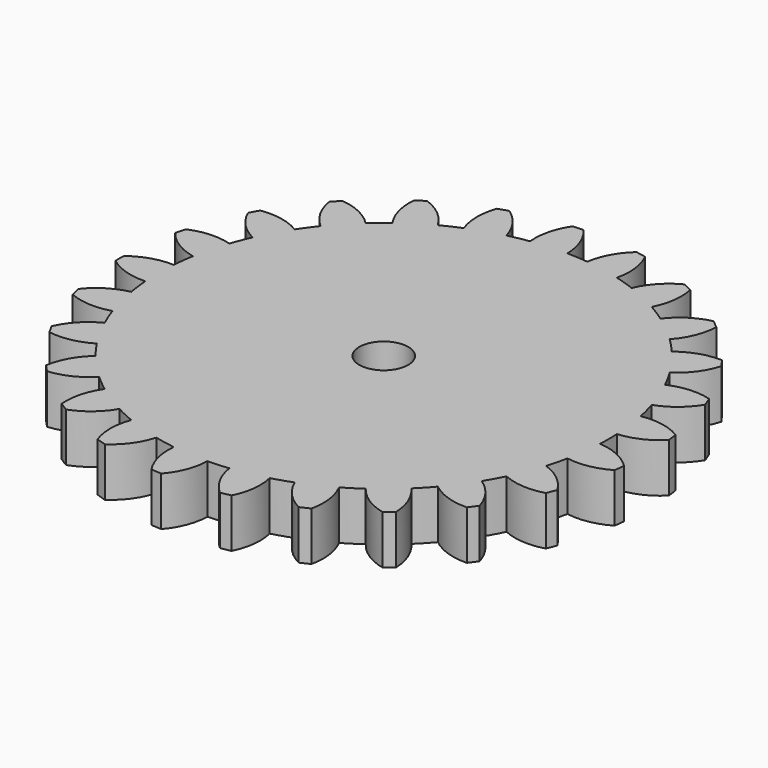
from build123d import *

# Parameters (mm, degrees)
F0_R     = 1
F1_DEPTH = 2


with BuildPart() as f1:
    # F0 (on Top) → F1 (new body)
    with BuildSketch(Plane.XY):
        with BuildLine():
            ThreePointArc((1.003907, 9.145063), (0.577673, 9.181846), (0.150189, 9.198774))
            ThreePointArc((0.150189, 9.198774), (-0.018265, 10.048606), (-0.466655, 10.789913))
            ThreePointArc((-0.466655, 10.789913), (-0.678138, 10.778689), (-0.889359, 10.763319))
            ThreePointArc((-0.889359, 10.763319), (-1.241303, 9.971659), (-1.301917, 9.107415))
            ThreePointArc((-1.301917, 9.107415), (-1.723908, 9.037043), (-2.142172, 8.947128))
            ThreePointArc((-2.142172, 8.947128), (-2.516678, 9.728368), (-3.135337, 10.334876))
            ThreePointArc((-3.135337, 10.334876), (-3.337384, 10.27141), (-3.538147, 10.203995))
            ThreePointArc((-3.538147, 10.203995), (-3.682156, 9.349681), (-3.525937, 8.497516))
            ThreePointArc((-3.525937, 8.497516), (-3.917169, 8.324409), (-4.299932, 8.133301))
            ThreePointArc((-4.299932, 8.133301), (-4.856958, 8.796861), (-5.607013, 9.23046))
            ThreePointArc((-5.607013, 9.23046), (-5.786929, 9.118742), (-5.96462, 9.003516))
            ThreePointArc((-5.96462, 9.003516), (-5.891646, 8.140229), (-5.528409, 7.353686))
            ThreePointArc((-5.528409, 7.353686), (-5.864301, 7.088722), (-6.187511, 6.808429))
            ThreePointArc((-6.187511, 6.808429), (-6.892059, 7.312615), (-7.726381, 7.546061))
            ThreePointArc((-7.726381, 7.546061), (-7.872861, 7.393109), (-8.016314, 7.237314))
            ThreePointArc((-8.016314, 7.237314), (-7.730941, 6.419296), (-7.183511, 5.747797))
            ThreePointArc((-7.183511, 5.747797), (-7.442956, 5.407624), (-7.686307, 5.055758))
            ThreePointArc((-7.686307, 5.055758), (-8.494105, 5.368891), (-9.360272, 5.387515))
            ThreePointArc((-9.360272, 5.387515), (-9.464112, 5.20294), (-9.564314, 5.016364))
            ThreePointArc((-9.564314, 5.016364), (-9.084474, 4.295015), (-8.387247, 3.780752))
            ThreePointArc((-8.387247, 3.780752), (-8.553944, 3.386746), (-8.702143, 2.985416))
            ThreePointArc((-8.702143, 2.985416), (-9.562436, 3.087819), (-10.406022, 2.890451))
            ThreePointArc((-10.406022, 2.890451), (-10.460698, 2.685851), (-10.511352, 2.480218))
            ThreePointArc((-10.511352, 2.480218), (-9.867195, 1.900862), (-9.063981, 1.57615))
            ThreePointArc((-9.063981, 1.57615), (-9.127455, 1.153066), (-9.171192, 0.727488))
            ThreePointArc((-9.171192, 0.727488), (-10.029924, 0.612728), (-10.797924, 0.21177))
            ThreePointArc((-10.797924, 0.21177), (-10.8, 0), (-10.797924, -0.21177))
            ThreePointArc((-10.797924, -0.21177), (-10.029924, -0.612728), (-9.171192, -0.727488))
            ThreePointArc((-9.171192, -0.727488), (-9.127455, -1.153066), (-9.063981, -1.57615))
            ThreePointArc((-9.063981, -1.57615), (-9.867195, -1.900862), (-10.511352, -2.480218))
            ThreePointArc((-10.511352, -2.480218), (-10.460698, -2.685851), (-10.406022, -2.890451))
            ThreePointArc((-10.406022, -2.890451), (-9.562436, -3.087819), (-8.702143, -2.985416))
            ThreePointArc((-8.702143, -2.985416), (-8.553944, -3.386746), (-8.387247, -3.780752))
            ThreePointArc((-8.387247, -3.780752), (-9.084474, -4.295015), (-9.564314, -5.016364))
            ThreePointArc((-9.564314, -5.016364), (-9.464112, -5.20294), (-9.360272, -5.387515))
            ThreePointArc((-9.360272, -5.387515), (-8.494105, -5.368891), (-7.686307, -5.055758))
            ThreePointArc((-7.686307, -5.055758), (-7.442956, -5.407624), (-7.183511, -5.747797))
            ThreePointArc((-7.183511, -5.747797), (-7.730941, -6.419296), (-8.016314, -7.237314))
            ThreePointArc((-8.016314, -7.237314), (-7.872861, -7.393109), (-7.726381, -7.546061))
            ThreePointArc((-7.726381, -7.546061), (-6.892059, -7.312615), (-6.187511, -6.808429))
            ThreePointArc((-6.187511, -6.808429), (-5.864301, -7.088722), (-5.528409, -7.353686))
            ThreePointArc((-5.528409, -7.353686), (-5.891646, -8.140229), (-5.96462, -9.003516))
            ThreePointArc((-5.96462, -9.003516), (-5.786929, -9.118742), (-5.607013, -9.23046))
            ThreePointArc((-5.607013, -9.23046), (-4.856958, -8.796861), (-4.299932, -8.133301))
            ThreePointArc((-4.299932, -8.133301), (-3.917169, -8.324409), (-3.525937, -8.497516))
            ThreePointArc((-3.525937, -8.497516), (-3.682156, -9.349681), (-3.538147, -10.203995))
            ThreePointArc((-3.538147, -10.203995), (-3.337384, -10.27141), (-3.135337, -10.334876))
            ThreePointArc((-3.135337, -10.334876), (-2.516678, -9.728368), (-2.142172, -8.947128))
            ThreePointArc((-2.142172, -8.947128), (-1.723908, -9.037043), (-1.301917, -9.107415))
            ThreePointArc((-1.301917, -9.107415), (-1.241303, -9.971659), (-0.889359, -10.763319))
            ThreePointArc((-0.889359, -10.763319), (-0.678138, -10.778689), (-0.466655, -10.789913))
            ThreePointArc((-0.466655, -10.789913), (-0.018265, -10.048606), (0.150189, -9.198774))
            ThreePointArc((0.150189, -9.198774), (0.577673, -9.181846), (1.003907, -9.145063))
            ThreePointArc((1.003907, -9.145063), (1.277545, -9.96708), (1.81531, -10.646344))
            ThreePointArc((1.81531, -10.646344), (2.023718, -10.608702), (2.231348, -10.566981))
            ThreePointArc((2.231348, -10.566981), (2.481296, -9.737453), (2.433113, -8.872427))
            ThreePointArc((2.433113, -8.872427), (2.842956, -8.74972), (3.246652, -8.608092))
            ThreePointArc((3.246652, -8.608092), (3.716121, -9.336234), (4.405917, -9.860421))
            ThreePointArc((4.405917, -9.860421), (4.598416, -9.772132), (4.789147, -9.680086))
            ThreePointArc((4.789147, -9.680086), (4.824947, -8.81446), (4.563155, -7.988593))
            ThreePointArc((4.563155, -7.988593), (4.929607, -7.767817), (5.285398, -7.530243))
            ThreePointArc((5.285398, -7.530243), (5.921199, -8.118757), (6.719684, -8.45493))
            ThreePointArc((6.719684, -8.45493), (6.884179, -8.321543), (7.046027, -8.184956))
            ThreePointArc((7.046027, -8.184956), (6.865429, -7.337622), (6.406477, -6.602806))
            ThreePointArc((6.406477, -6.602806), (6.706511, -6.297833), (6.992043, -5.979242))
            ThreePointArc((6.992043, -5.979242), (7.754226, -6.391149), (8.611228, -6.518186))
            ThreePointArc((8.611228, -6.518186), (8.737384, -6.348081), (8.860179, -6.175535))
            ThreePointArc((8.860179, -6.175535), (8.474532, -5.399734), (7.847257, -4.802141))
            ThreePointArc((7.847257, -4.802141), (8.062021, -4.432134), (8.259352, -4.052543))
            ThreePointArc((8.259352, -4.052543), (9.100027, -4.261962), (9.961698, -4.17188))
            ThreePointArc((9.961698, -4.17188), (10.041586, -3.975745), (10.117613, -3.778082))
            ThreePointArc((10.117613, -3.778082), (9.551148, -3.122561), (8.794965, -2.699739))
            ThreePointArc((8.794965, -2.699739), (8.910965, -2.287947), (9.007696, -1.871207))
            ThreePointArc((9.007696, -1.871207), (9.87404, -1.86498), (10.686237, -1.563439))
            ThreePointArc((10.686237, -1.563439), (10.714839, -1.353599), (10.739321, -1.143239))
            ThreePointArc((10.739321, -1.143239), (10.02763, -0.649186), (9.190053, -0.427703))
            ThreePointArc((9.190053, -0.427703), (9.2, 0), (9.190053, 0.427703))
            ThreePointArc((9.190053, 0.427703), (10.02763, 0.649186), (10.739321, 1.143239))
            ThreePointArc((10.739321, 1.143239), (10.714839, 1.353599), (10.686237, 1.563439))
            ThreePointArc((10.686237, 1.563439), (9.87404, 1.86498), (9.007696, 1.871207))
            ThreePointArc((9.007696, 1.871207), (8.910965, 2.287947), (8.794965, 2.699739))
            ThreePointArc((8.794965, 2.699739), (9.551148, 3.122561), (10.117613, 3.778082))
            ThreePointArc((10.117613, 3.778082), (10.041586, 3.975745), (9.961698, 4.17188))
            ThreePointArc((9.961698, 4.17188), (9.100027, 4.261962), (8.259352, 4.052543))
            ThreePointArc((8.259352, 4.052543), (8.062021, 4.432134), (7.847257, 4.802141))
            ThreePointArc((7.847257, 4.802141), (8.474532, 5.399734), (8.860179, 6.175535))
            ThreePointArc((8.860179, 6.175535), (8.737384, 6.348081), (8.611228, 6.518186))
            ThreePointArc((8.611228, 6.518186), (7.754226, 6.391149), (6.992043, 5.979242))
            ThreePointArc((6.992043, 5.979242), (6.706511, 6.297833), (6.406477, 6.602806))
            ThreePointArc((6.406477, 6.602806), (6.865429, 7.337622), (7.046027, 8.184956))
            ThreePointArc((7.046027, 8.184956), (6.884179, 8.321543), (6.719684, 8.45493))
            ThreePointArc((6.719684, 8.45493), (5.921199, 8.118757), (5.285398, 7.530243))
            ThreePointArc((5.285398, 7.530243), (4.929607, 7.767817), (4.563155, 7.988593))
            ThreePointArc((4.563155, 7.988593), (4.824947, 8.81446), (4.789147, 9.680086))
            ThreePointArc((4.789147, 9.680086), (4.598416, 9.772132), (4.405917, 9.860421))
            ThreePointArc((4.405917, 9.860421), (3.716121, 9.336234), (3.246652, 8.608092))
            ThreePointArc((3.246652, 8.608092), (2.842956, 8.74972), (2.433113, 8.872427))
            ThreePointArc((2.433113, 8.872427), (2.481296, 9.737453), (2.231348, 10.566981))
            ThreePointArc((2.231348, 10.566981), (2.023718, 10.608702), (1.81531, 10.646344))
            ThreePointArc((1.81531, 10.646344), (1.277545, 9.96708), (1.003907, 9.145063))
        make_face()
        Circle(F0_R, mode=Mode.SUBTRACT)
    extrude(amount=F1_DEPTH)


solid = f1.part
